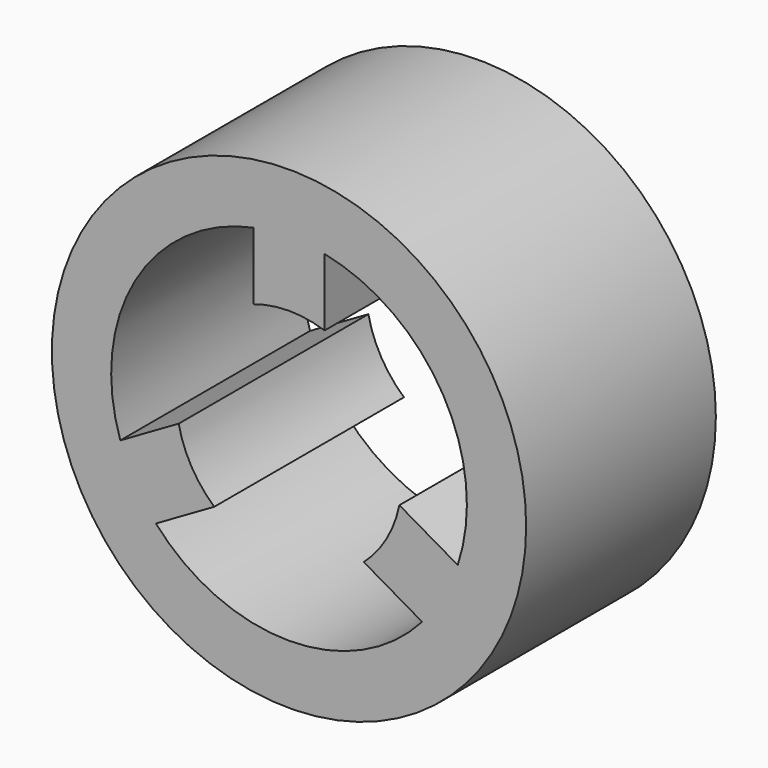
from build123d import *

# Parameters (mm, degrees)
F0_R     = 5.08
F1_DEPTH = 5.08


with BuildPart() as f1:
    # F0 (on Front) → F1 (new body)
    with BuildSketch(Plane.XZ):
        Circle(F0_R)
        with BuildLine():
            ThreePointArc((-0.762, 2.289525), (0, 2.413), (0.762, 2.289525))
            Line((0.762, 2.289525), (0.762, 3.733022))
            ThreePointArc((0.762, 3.733022), (3.299557, 1.905), (3.613892, -1.2066))
            Line((3.613892, -1.2066), (2.363787, -0.484851))
            ThreePointArc((2.363787, -0.484851), (2.089719, -1.2065), (1.601787, -1.804674))
            Line((1.601787, -1.804674), (2.851892, -2.526423))
            ThreePointArc((2.851892, -2.526423), (0, -3.81), (-2.851892, -2.526423))
            Line((-2.851892, -2.526423), (-1.601787, -1.804674))
            ThreePointArc((-1.601787, -1.804674), (-2.089719, -1.2065), (-2.363787, -0.484851))
            Line((-2.363787, -0.484851), (-3.613892, -1.2066))
            ThreePointArc((-3.613892, -1.2066), (-3.299557, 1.905), (-0.762, 3.733022))
            Line((-0.762, 3.733022), (-0.762, 2.289525))
        make_face(mode=Mode.SUBTRACT)
    extrude(amount=F1_DEPTH)


solid = f1.part
